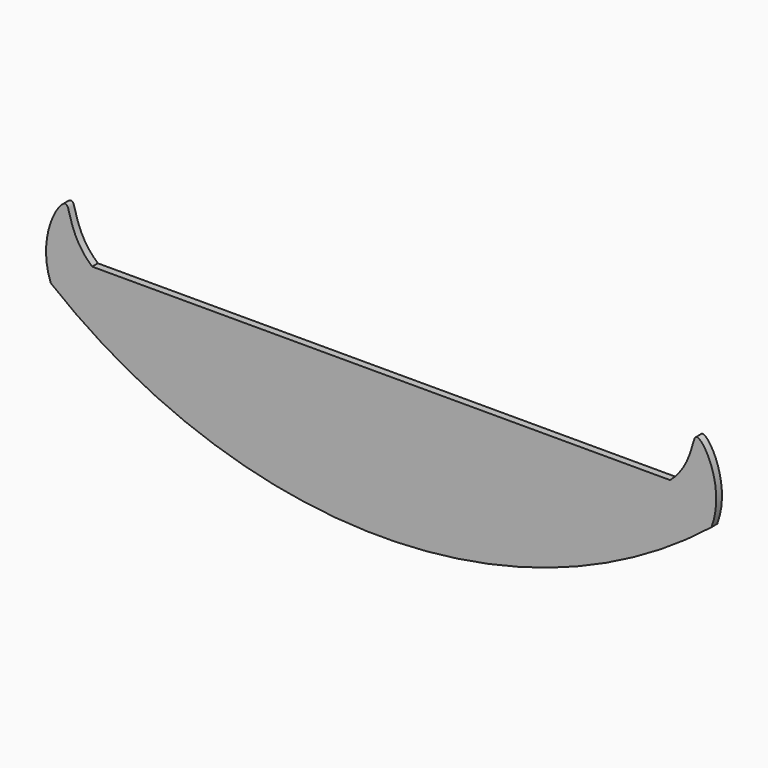
from build123d import *

# Parameters (mm, degrees)
F1_DEPTH = 6.35


with BuildPart() as f1:
    # F0 (on Front) → F1 (new body)
    with BuildSketch(Plane.XZ):
        with BuildLine():
            Line((-12.7, 12.7733604336), (-255.5607279458, 12.7733604336))
            add(Edge.make_bspline(
                [(-292.1, -12.0033285238), (-304.6119324624, 21.0419039417), (-270.0021035837, 80.8996231735), (-277.3584148413, 32.0123676961), (-255.5607279458, 12.7733604336)],
                knots=[0, 0, 0, 0, 0.5429717814, 1, 1, 1, 1], degree=3))
            ThreePointArc((-292.1, -12.0033285238), (-160.7425311799, -85.917055196), (-12.7, -114.2266395664))
            Line((-12.7, -114.2266395664), (12.7, -114.2266395664))
            ThreePointArc((12.7, -114.2266395664), (160.7425311799, -85.917055196), (292.1, -12.0033285238))
            add(Edge.make_bspline(
                [(292.1, -12.0033285238), (304.6119324624, 21.0419039417), (270.0021035837, 80.8996231735), (277.3584148413, 32.0123676961), (255.5607279458, 12.7733604336)],
                knots=[0, 0, 0, 0, 0.5429717814, 1, 1, 1, 1], degree=3))
            Line((255.5607279458, 12.7733604336), (12.7, 12.7733604336))
            Line((12.7, 12.7733604336), (-12.7, 12.7733604336))
        make_face()
    extrude(amount=F1_DEPTH)


solid = f1.part
